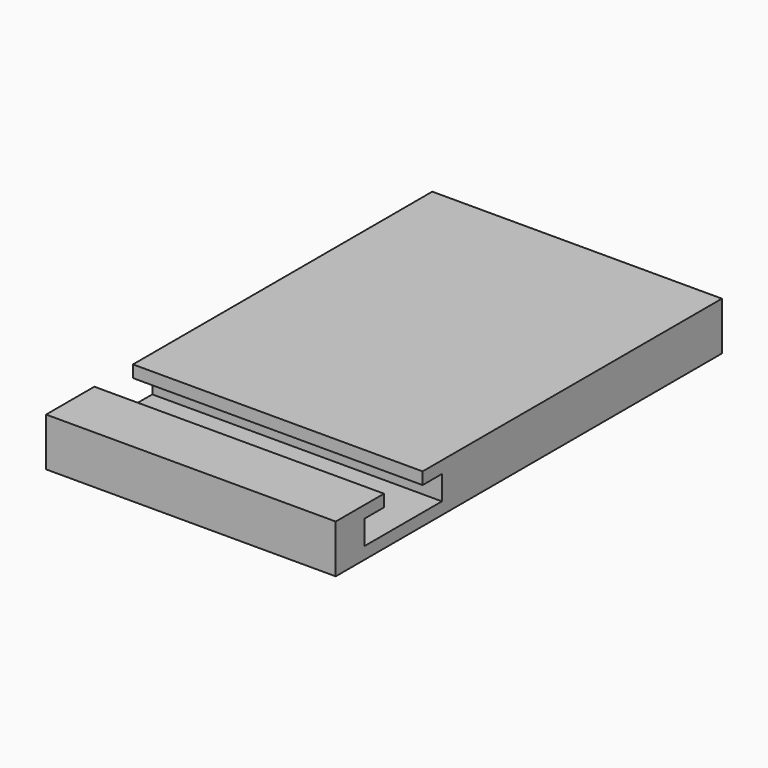
from build123d import *

# Parameters (mm, degrees)
F0_W     = 152.4
F0_H     = 254
F1_DEPTH = 25.4
F3_DEPTH = 152.401


with BuildPart() as f1:
    # F0 (on Top) → F1 (new body)
    with BuildSketch(Plane.XY):
        with Locations((76.2, 127)):
            Rectangle(F0_W, F0_H)
    extrude(amount=-F1_DEPTH)

    # F2 (on face) → F3 (cut, through all)
    with BuildSketch(Plane.YZ.offset(152.4)):
        Polygon((57.15, -6.35), (57.15, 0), (31.75, 0), (31.75, -6.35), (19.05, -6.35), (19.05, -19.05), (69.85, -19.05), (69.85, -6.35), align=None)
    extrude(amount=-F3_DEPTH, mode=Mode.SUBTRACT)


solid = f1.part
